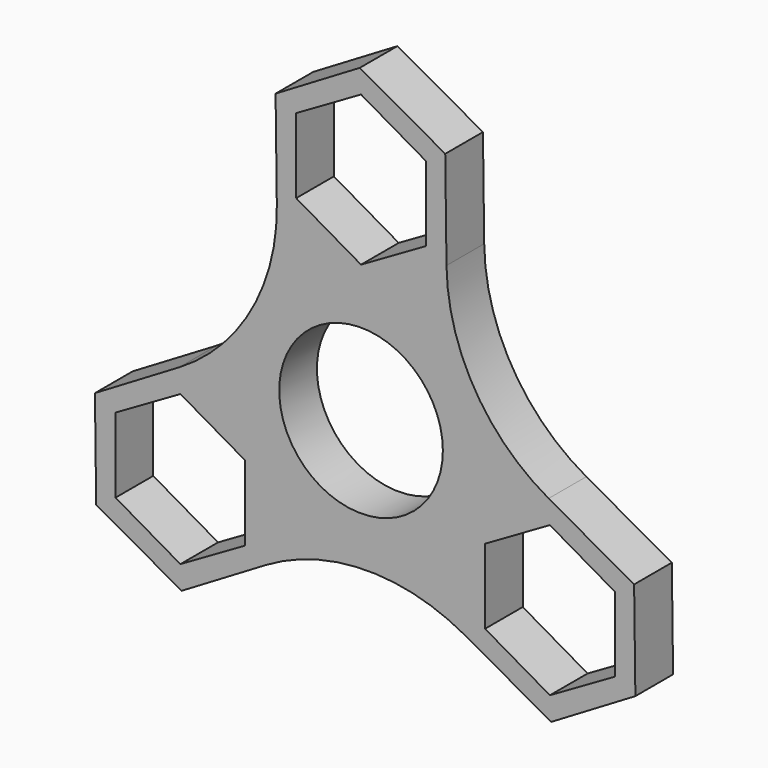
from build123d import *

# Parameters (mm, degrees)
F0_R     = 14.2875
F0_R_2   = 11.0236
F1_DEPTH = 6.35


with BuildPart() as f1:
    # F0 (on Front) → F1 (new body)
    with BuildSketch(Plane.XZ):
        with BuildLine():
            ThreePointArc((25.275979, -1.022962), (15.293344, 8.706357), (11.514191, 22.123907))
            Line((11.514191, 22.123907), (0.170285, 15.377871))
            Line((0.170285, 15.377871), (-11.343906, 21.828965))
            ThreePointArc((-11.343906, 21.828965), (-14.779742, 8.319828), (-24.508788, -1.662528))
            Line((-24.508788, -1.662528), (-12.994597, -8.113621))
            Line((-12.994597, -8.113621), (-12.824312, -21.31075))
            ThreePointArc((-12.824312, -21.31075), (0.592862, -17.531702), (14.102358, -20.966126))
            Line((14.102358, -20.966126), (13.932073, -7.768997))
            Line((13.932073, -7.768997), (25.275979, -1.022962))
        make_face()
        Circle(F0_R, mode=Mode.SUBTRACT)
        Polygon((0.170285, 15.377871), (11.514191, 22.123907), (11.343906, 35.321035), (-0.170285, 41.772129), (-11.514191, 35.026093), (-11.343906, 21.828965), align=None)
        Polygon((0, 38.664311), (8.7376, 33.619656), (8.7376, 23.530344), (0, 18.485689), (-8.7376, 23.530344), (-8.7376, 33.619656), align=None, mode=Mode.SUBTRACT)
        Polygon((36.79017, -7.474055), (25.275979, -1.022962), (13.932073, -7.768997), (14.102358, -20.966126), (25.616549, -27.417219), (36.960455, -20.671184), align=None)
        Polygon((25.446264, -4.130779), (34.183864, -9.175435), (34.183864, -19.264746), (25.446264, -24.309402), (16.708664, -19.264746), (16.708664, -9.175435), align=None, mode=Mode.SUBTRACT)
        Polygon((-12.994597, -8.113621), (-24.508788, -1.662528), (-35.852694, -8.408563), (-35.68241, -21.605692), (-24.168219, -28.056785), (-12.824312, -21.31075), align=None)
        Polygon((-15.600903, -19.904312), (-24.338503, -24.948968), (-33.076103, -19.904312), (-33.076103, -9.815001), (-24.338503, -4.770345), (-15.600903, -9.815001), align=None, mode=Mode.SUBTRACT)
        Circle(F0_R)
        Circle(F0_R_2, mode=Mode.SUBTRACT)
    extrude(amount=F1_DEPTH)


solid = f1.part
